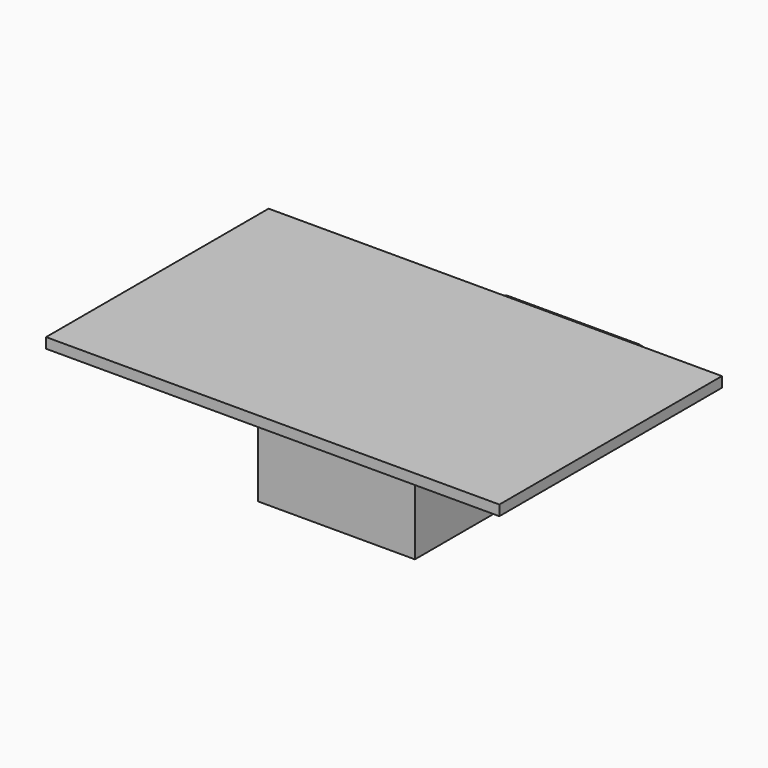
from build123d import *

# Parameters (mm, degrees)
F0_W     = 1117.6
F0_H     = 685.8
F1_DEPTH = 25.4
F2_W     = 387.35
F2_H     = 489.712
F3_DEPTH = 292.1
F5_DEPTH = 317.5


with BuildPart() as f1:
    # F0 (on Top) → F1 (new body)
    with BuildSketch(Plane.XY):
        Rectangle(F0_W, F0_H)
    extrude(amount=-F1_DEPTH)

    # F2 (on face) → F3 (join)
    with BuildSketch(Plane(origin=(0, 0, -25.4), x_dir=(1, 0, 0), z_dir=(0, 0, -1))):
        with Locations((0, -98.044)):
            Rectangle(F2_W, F2_H)
    extrude(amount=F3_DEPTH)

    # F4 (on face) → F5 (join)
    with BuildSketch(Plane(origin=(-193.675, 0, 0), x_dir=(0, -1, 0), z_dir=(-1, 0, 0))):
        with BuildLine():
            Line((-342.9, -105.342755), (-597.796015, -173.641936))
            ThreePointArc((-597.796015, -173.641936), (-650.314815, -335.895403), (-480.768299, -317.5))
            Line((-480.768299, -317.5), (-342.9, -317.5))
            Line((-342.9, -317.5), (-342.9, -105.342755))
        make_face()
    extrude(amount=-F5_DEPTH)


solid = f1.part
